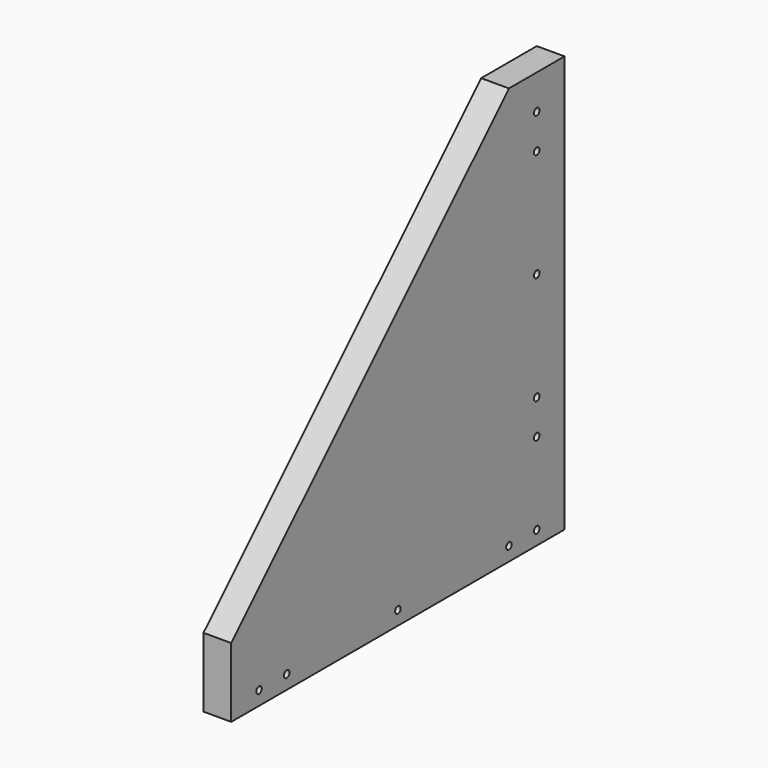
from build123d import *

# Parameters (mm, degrees)
F1_DEPTH = 40
F4_D     = 10


with BuildPart() as f1:
    # F0 (on Right) → F1 (new body)
    with BuildSketch(Plane.YZ):
        Polygon((-600, 0), (0, 0), (0, 600), (-100, 600), (-600, 100), align=None)
    extrude(amount=F1_DEPTH)

    # F4 (through all)
    with Locations(Plane(origin=(0, 0, 0), x_dir=(0, -1, 0), z_dir=(-1, 0, 0))):
        with Locations((50, 20), (100, 20), (300, 20), (500, 20), (550, 20), (50, 138), (50, 188), (50, 344), (50, 500), (50, 550)):
            Hole(F4_D / 2)


solid = f1.part
